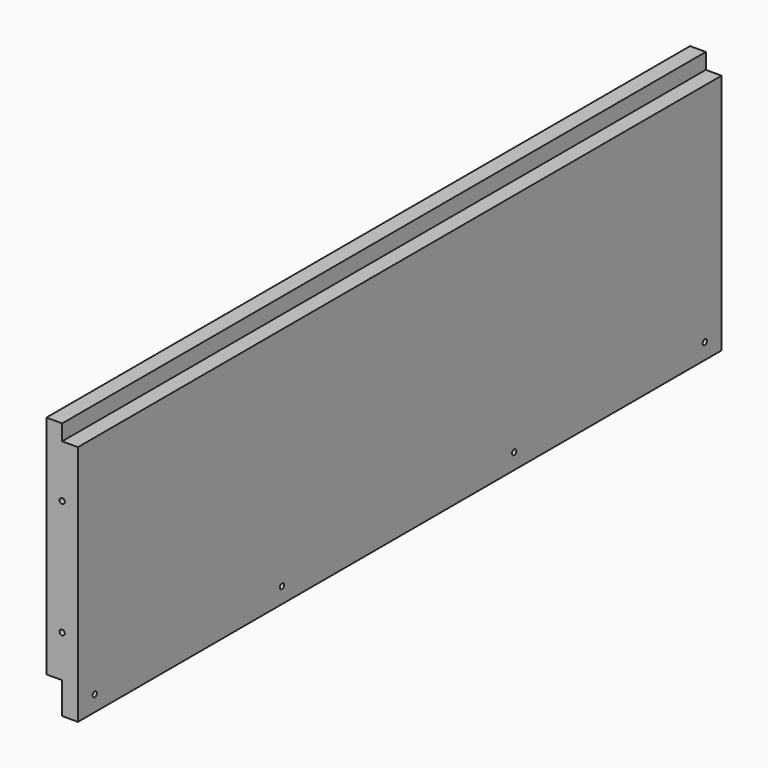
from build123d import *

# Parameters (mm, degrees)
F0_W     = 485.775
F0_H     = 19.05
F0_R     = 1.5875
F0_H_2   = 127
F1_DEPTH = 9.525
F0_H_3   = 9.525
F2_DEPTH = 9.525
F4_R     = 1.5875
F5_DEPTH = 9.525
F3_R     = 1.5875
F6_DEPTH = 9.525


with BuildPart() as f1:
    # F0 (on Right) → F1 (new body)
    with BuildSketch(Plane.YZ):
        with Locations((0, -148.74875)):
            Rectangle(F0_W, F0_H)
        with Locations((-230.1875, -148.74875)):
            Circle(F0_R, mode=Mode.SUBTRACT)
        with Locations((-88.9, -148.74875)):
            Circle(F0_R, mode=Mode.SUBTRACT)
        with Locations((86.36, -148.74875)):
            Circle(F0_R, mode=Mode.SUBTRACT)
        with Locations((230.1875, -148.74875)):
            Circle(F0_R, mode=Mode.SUBTRACT)
        with Locations((0, -75.72375)):
            Rectangle(F0_W, F0_H_2)
        with BuildLine():
            Line((-50.8, -101.12375), (50.8, -101.12375))
            ThreePointArc((50.8, -101.12375), (57.15, -107.47375), (50.8, -113.82375))
            Line((50.8, -113.82375), (-50.8, -113.82375))
            ThreePointArc((-50.8, -113.82375), (-57.15, -107.47375), (-50.8, -101.12375))
        make_face(mode=Mode.SUBTRACT)
        with BuildLine():
            ThreePointArc((50.8, -113.82375), (57.15, -107.47375), (50.8, -101.12375))
            Line((50.8, -101.12375), (-50.8, -101.12375))
            ThreePointArc((-50.8, -101.12375), (-57.15, -107.47375), (-50.8, -113.82375))
            Line((-50.8, -113.82375), (50.8, -113.82375))
        make_face()
    extrude(amount=F1_DEPTH)

    # F0 (on Right) → F2 (join)
    with BuildSketch(Plane.YZ):
        with Locations((0, -75.72375)):
            Rectangle(F0_W, F0_H_2)
        with BuildLine():
            Line((-50.8, -101.12375), (50.8, -101.12375))
            ThreePointArc((50.8, -101.12375), (57.15, -107.47375), (50.8, -113.82375))
            Line((50.8, -113.82375), (-50.8, -113.82375))
            ThreePointArc((-50.8, -113.82375), (-57.15, -107.47375), (-50.8, -101.12375))
        make_face(mode=Mode.SUBTRACT)
        with Locations((0, -7.46125)):
            Rectangle(F0_W, F0_H_3)
        with BuildLine():
            ThreePointArc((50.8, -113.82375), (57.15, -107.47375), (50.8, -101.12375))
            Line((50.8, -101.12375), (-50.8, -101.12375))
            ThreePointArc((-50.8, -101.12375), (-57.15, -107.47375), (-50.8, -113.82375))
            Line((-50.8, -113.82375), (50.8, -113.82375))
        make_face()
    extrude(amount=-F2_DEPTH)

    # F4 (on face) → F5 (cut)
    with BuildSketch(Plane(origin=(0, 242.8875, 0), x_dir=(-1, 0, 0), z_dir=(0, 1, 0))):
        with Locations((0, -43.97375)):
            Circle(F4_R)
        with Locations((0, -113.82375)):
            Circle(F4_R)
    extrude(amount=-F5_DEPTH, mode=Mode.SUBTRACT)

    # F3 (on face) → F6 (cut)
    with BuildSketch(Plane.XZ.offset(242.8875)):
        with Locations((0, -113.82375)):
            Circle(F3_R)
        with Locations((0, -43.97375)):
            Circle(F3_R)
    extrude(amount=-F6_DEPTH, mode=Mode.SUBTRACT)


solid = f1.part
